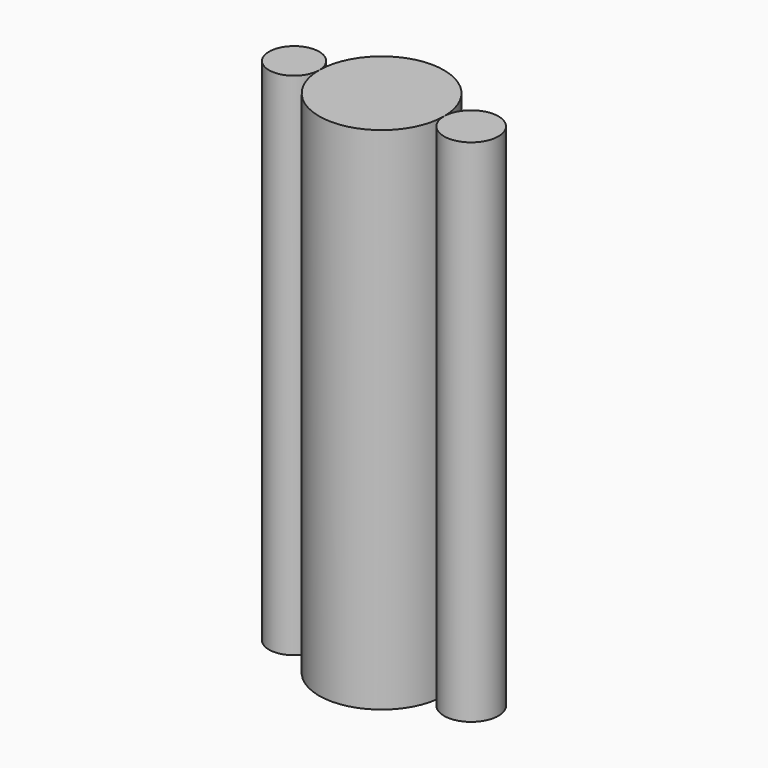
from build123d import *

# Parameters (mm, degrees)
F0_R     = 6.828287
F1_DEPTH = 138.938
F2_R     = 13.996202
F3_DEPTH = 127
F4_R     = 5.1299
F5_DEPTH = 127
F6_R     = 4.820977
F7_DEPTH = 127


with BuildPart() as f1:
    # F0 (on Top) → F1 (new body)
    with BuildSketch(Plane.XY):
        with BuildLine():
            ThreePointArc((-17.001406, 0), (0, -17.001406), (17.001406, 0))
            ThreePointArc((17.001406, 0), (0, 17.001406), (-17.001406, 0))
        make_face()
        with BuildLine():
            ThreePointArc((31.81336, 0), (24.407383, 7.405977), (17.001406, 0))
            ThreePointArc((17.001406, 0), (24.407383, -7.405977), (31.81336, 0))
        make_face()
        with Locations((-23.829693, 0)):
            Circle(F0_R)
    extrude(amount=F1_DEPTH)

    # F2 (on face) → F3 (cut)
    with BuildSketch(Plane(origin=(0, 0, 0), x_dir=(1, 0, 0), z_dir=(0, 0, -1))):
        Circle(F2_R)
    extrude(amount=-F3_DEPTH, mode=Mode.SUBTRACT)

    # F4 (on face) → F5 (cut)
    with BuildSketch(Plane(origin=(0, 0, 0), x_dir=(1, 0, 0), z_dir=(0, 0, -1))):
        with Locations((24.407383, 0)):
            Circle(F4_R)
    extrude(amount=-F5_DEPTH, mode=Mode.SUBTRACT)

    # F6 (on face) → F7 (cut)
    with BuildSketch(Plane(origin=(0, 0, 0), x_dir=(1, 0, 0), z_dir=(0, 0, -1))):
        with Locations((-23.829693, 0)):
            Circle(F6_R)
    extrude(amount=-F7_DEPTH, mode=Mode.SUBTRACT)


solid = f1.part
